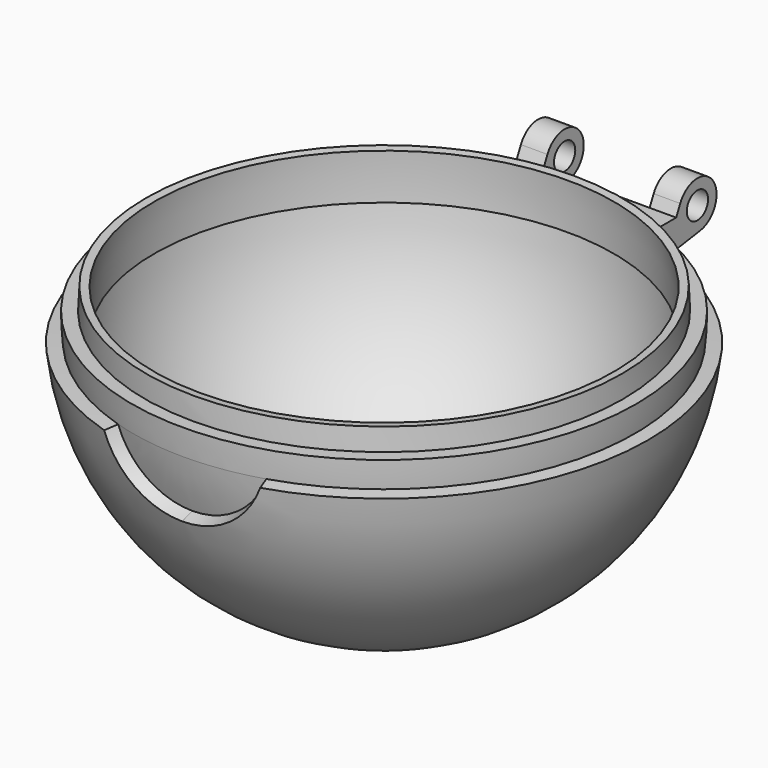
from build123d import *

# Parameters (mm, degrees)
GROOVE_ANGLE = -0.01
PAD_DEPTH    = 5.27
SKETCH003_R  = 2.5
PAD001_DEPTH = 15
POCKET_DEPTH = 10


with BuildPart() as part:
    # Sketch → Revolution (revolve)
    with BuildSketch(Plane.YZ):
        with BuildLine():
            ThreePointArc((-49.7229916898, -5.2558631471), (-33.4455291679, -37.1671438058), (0, -50))
            Line((0, -45), (0, -50))
            ThreePointArc((-44.7506925208, -4.7302768324), (-30.1009762511, -33.4504294252), (0, -45))
            Line((-43.2590027701, -4.572600938), (-44.7506925208, -4.7302768324))
            ThreePointArc((-43.3157015411, 4), (-43.4990485914, -0.287700619), (-43.2590027701, -4.572600938))
            Line((-43.3157015411, 4), (-44.8093464219, 4.1379310345))
            ThreePointArc((-44.8093464219, 4.1379310345), (-44.9523113365, 2.0711604255), (-45, 0))
            Line((-47.5, 0), (-45, 0))
            ThreePointArc((-47.5, 0), (-47.4341649025, -2.5), (-47.2368421053, -4.9930699897))
            Line((-47.2368421053, -4.9930699897), (-49.7229916898, -5.2558631471))
        make_face()
    revolve(axis=Axis((0, 0, 0), (0, 0, 1)))

    # Sketch001 → Groove (revolve, symmetric, cut)
    with BuildSketch(Plane.YZ) as groove_sk:
        with BuildLine():
            ThreePointArc((-47.5, 0), (-46.9041575982, -7.5), (-45.1315789474, -14.8118392415))
            Line((-45.1315789474, -14.8118392415), (-47.5069252078, -15.5914097279))
            ThreePointArc((-50, 0), (-49.3727974718, -7.8947368421), (-47.5069252078, -15.5914097279))
            Line((-47.5, 0), (-50, 0))
        make_face()
    revolve(axis=Axis((0, 0, 0), (0, 0, 1)), revolution_arc=GROOVE_ANGLE / 2, mode=Mode.SUBTRACT)
    revolve(groove_sk.sketch, axis=Axis((0, 0, 0), (0, 0, -1)), revolution_arc=GROOVE_ANGLE / 2, mode=Mode.SUBTRACT)

    # Sketch001 → Groove001 (revolve, cut)
    with BuildSketch(Plane.YZ):
        with BuildLine():
            ThreePointArc((-47.5, 0), (-46.9041575982, -7.5), (-45.1315789474, -14.8118392415))
            Line((-45.1315789474, -14.8118392415), (-47.5069252078, -15.5914097279))
            ThreePointArc((-50, 0), (-49.3727974718, -7.8947368421), (-47.5069252078, -15.5914097279))
            Line((-47.5, 0), (-50, 0))
        make_face()
    revolve(axis=Axis((0, 0, 0), (0, 1, 0)), mode=Mode.SUBTRACT)

    # Sketch002 → Pad (new body)
    with BuildSketch(Plane.XY):
        with BuildLine():
            Line((-15, 50), (15, 50))
            Line((15, 50), (15, 44.41))
            ThreePointArc((15, 44.41), (0, 46.8748130663), (-15, 44.41))
            Line((-15, 50), (-15, 44.41))
        make_face()
    extrude(amount=-PAD_DEPTH)

    # Sketch003 → Pad001 (join, symmetric)
    with BuildSketch(Plane.YZ):
        with BuildLine():
            ThreePointArc((55.6441549231, -4.4536574223), (58.6316003185, 2.6573443749), (50.95, 1.9615045245))
            Line((50.95, 1.9615045245), (50, 0))
            Line((50, 0), (50, -5.27))
            Line((55.6441549231, -4.4536574223), (50, -5.27))
        make_face()
        with Locations((55, 0)):
            Circle(SKETCH003_R, mode=Mode.SUBTRACT)
    extrude(amount=PAD001_DEPTH, both=True)

    # Sketch003 → Pocket (cut, symmetric)
    with BuildSketch(Plane.YZ):
        with BuildLine():
            ThreePointArc((55.6441549231, -4.4536574223), (58.6316003185, 2.6573443749), (50.95, 1.9615045245))
            Line((50.95, 1.9615045245), (50, 0))
            Line((50, 0), (50, -5.27))
            Line((55.6441549231, -4.4536574223), (50, -5.27))
        make_face()
        with Locations((55, 0)):
            Circle(SKETCH003_R, mode=Mode.SUBTRACT)
    extrude(amount=POCKET_DEPTH, both=True, mode=Mode.SUBTRACT)


solid = part.part
